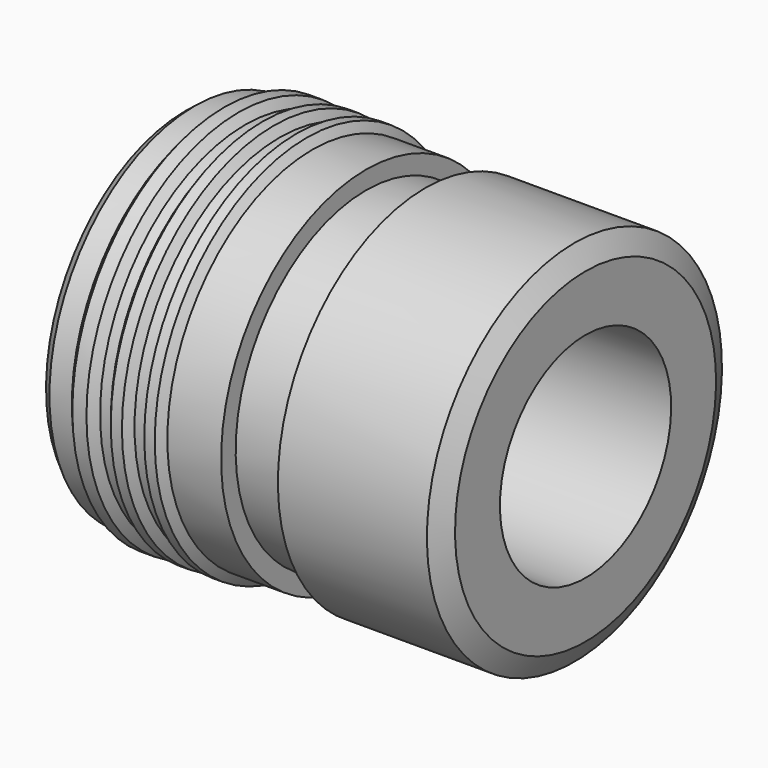
from build123d import *


with BuildPart() as f1:
    # F0 (on Front) → F1 (revolve)
    with BuildSketch(Plane.XZ):
        Polygon((0, 16.044535), (60.030065, 16.044535), (60.030065, 24.459992), (58.366183, 27.647559), (36.027692, 27.647559), (35.348829, 24.459992), (27.14524, 24.459992), (27.14524, 27.187126), (19.083353, 27.187126), (18.245753, 28.5), (16.675256, 28.5), (15.837656, 27.187126), (14.162459, 27.187126), (13.32486, 28.5), (11.649664, 28.5), (10.621137, 27.187126), (9.00251, 27.187126), (8.006431, 28.5), (5.889764, 28.5), (4.769176, 27.187126), (1.407412, 27.187126), (0, 26.066538), align=None)
    revolve(axis=Axis((30, 0, 0), (1, 0, 0)))


solid = f1.part
